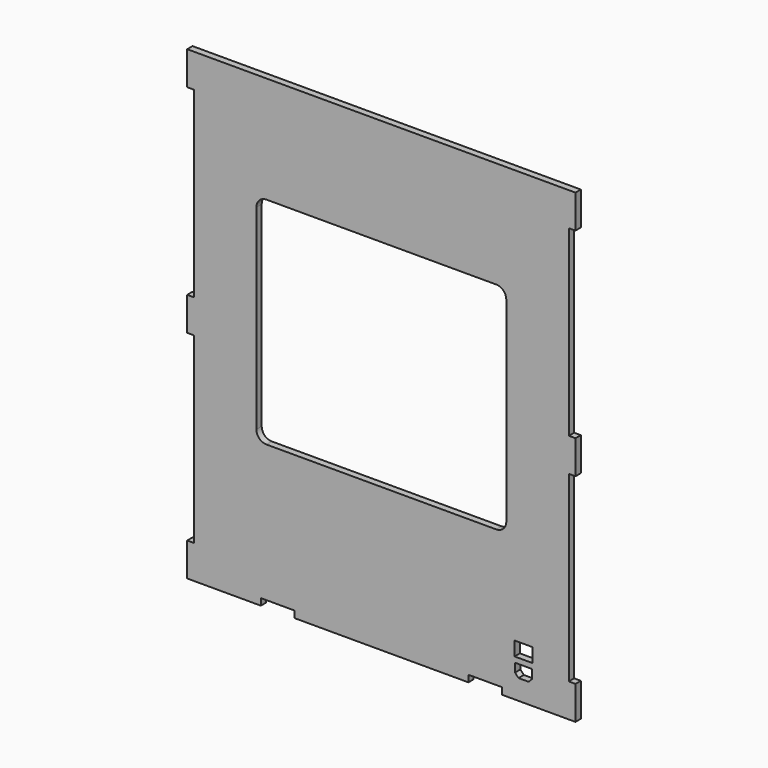
from build123d import *

# Parameters (mm, degrees)
PAD_DEPTH     = 10
SKETCH001_W   = 27
SKETCH001_H   = 21
SKETCH001_W_2 = 50
SKETCH001_H_2 = 10
POCKET_DEPTH  = 10.001


with BuildPart() as part:
    # Sketch → Pad (new body)
    with BuildSketch(Plane(origin=(0, 0, 0), x_dir=(-1, 0, 0), z_dir=(0, 1, 0))):
        Polygon((0, 0), (560, 0), (570, 0), (570, 50), (560, 50), (560, 323), (570, 323), (570, 373), (560, 373), (560, 646), (570, 646), (570, 696), (560, 696), (0, 696), (-10, 696), (-10, 646), (0, 646), (0, 373), (-10, 373), (-10, 323), (0, 323), (0, 50), (-10, 50), (-10, 0), align=None)
    extrude(amount=PAD_DEPTH)

    # Sketch001 → Pocket (cut, through all)
    with BuildSketch(Plane(origin=(0, 10, 0), x_dir=(-1, 0, 0), z_dir=(0, 1, 0))):
        with BuildLine():
            Line((108.335, 536.67), (451.675, 536.67))
            ThreePointArc((466.675, 521.67), (462.281602, 532.276602), (451.675, 536.67))
            Line((466.675, 521.67), (466.675, 229.67))
            ThreePointArc((451.675, 214.67), (462.281602, 219.063398), (466.675, 229.67))
            Line((451.675, 214.67), (108.335, 214.67))
            ThreePointArc((93.335, 229.67), (97.728398, 219.063398), (108.335, 214.67))
            Line((93.335, 229.67), (93.335, 521.67))
            ThreePointArc((108.335, 536.67), (97.728398, 532.276602), (93.335, 521.67))
        make_face()
        with BuildLine():
            Line((60, 30), (75, 30))
            Line((80.3, 35.5), (75, 30))
            Line((80.3, 47), (80.3, 35.5))
            ThreePointArc((80.3, 47), (79.86066, 48.06066), (78.8, 48.5))
            Line((78.8, 48.5), (56.2, 48.5))
            ThreePointArc((56.2, 48.5), (55.13934, 48.06066), (54.7, 47))
            Line((54.7, 47), (54.7, 35.5))
            Line((54.7, 35.5), (60, 30))
        make_face()
        with Locations((67.5, 67)):
            Rectangle(SKETCH001_W, SKETCH001_H)
        with Locations((125, 5)):
            Rectangle(SKETCH001_W_2, SKETCH001_H_2)
        with Locations((435, 5)):
            Rectangle(SKETCH001_W_2, SKETCH001_H_2)
    extrude(amount=-POCKET_DEPTH, mode=Mode.SUBTRACT)


solid = part.part
